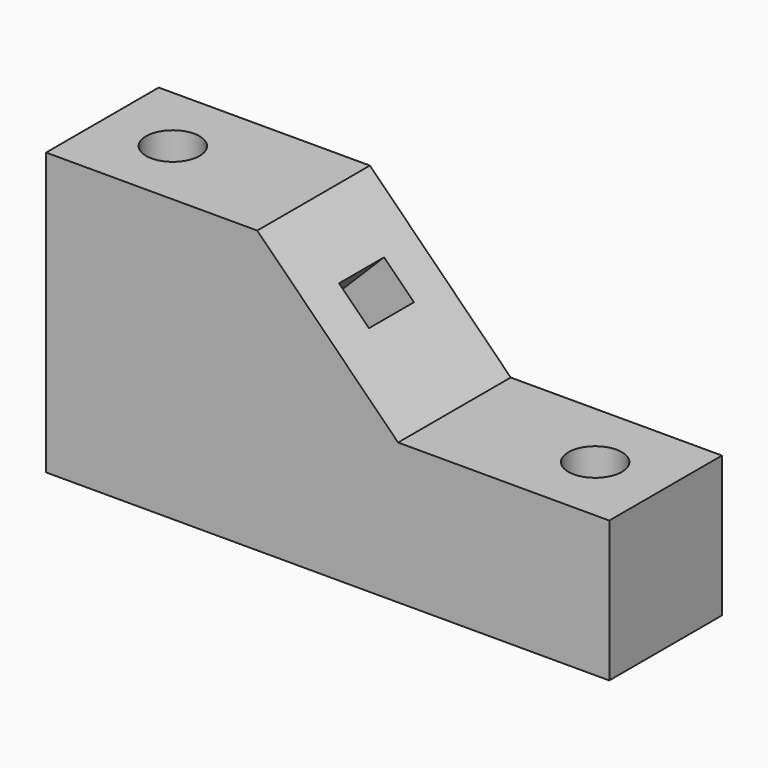
from build123d import *

# Parameters (mm, degrees)
F1_DEPTH = 25.4
F2_R     = 4.826
F3_DEPTH = 50.801
F5_D     = 9.652
F6_W     = 7.62
F6_H     = 10.16
F7_DEPTH = 62.862793


with BuildPart() as f1:
    # F0 (on Front) → F1 (new body)
    with BuildSketch(Plane.XZ):
        Polygon((-63.5, 50.8), (-101.6, 50.8), (-101.6, 0), (0, 0), (0, 25.4), (-38.1, 25.4), align=None)
    extrude(amount=F1_DEPTH)

    # F2 (on face) → F3 (cut, through all)
    with BuildSketch(Plane.XY.offset(50.8)):
        with Locations((-88.9, -12.7)):
            Circle(F2_R)
    extrude(amount=-F3_DEPTH, mode=Mode.SUBTRACT)

    # F5 (through all)
    with Locations(Plane.XY.offset(25.4)):
        with Locations((-12.7, -12.7)):
            Hole(F5_D / 2)

    # F6 (on face) → F7 (cut, through all)
    with BuildSketch(Plane(origin=(-6.35, 0, -6.35), x_dir=(0.707107, 0, -0.707107), z_dir=(0.707107, 0, 0.707107))):
        with Locations((-64.772308, -12.7)):
            Rectangle(F6_W, F6_H)
    extrude(amount=-F7_DEPTH, mode=Mode.SUBTRACT)


solid = f1.part
